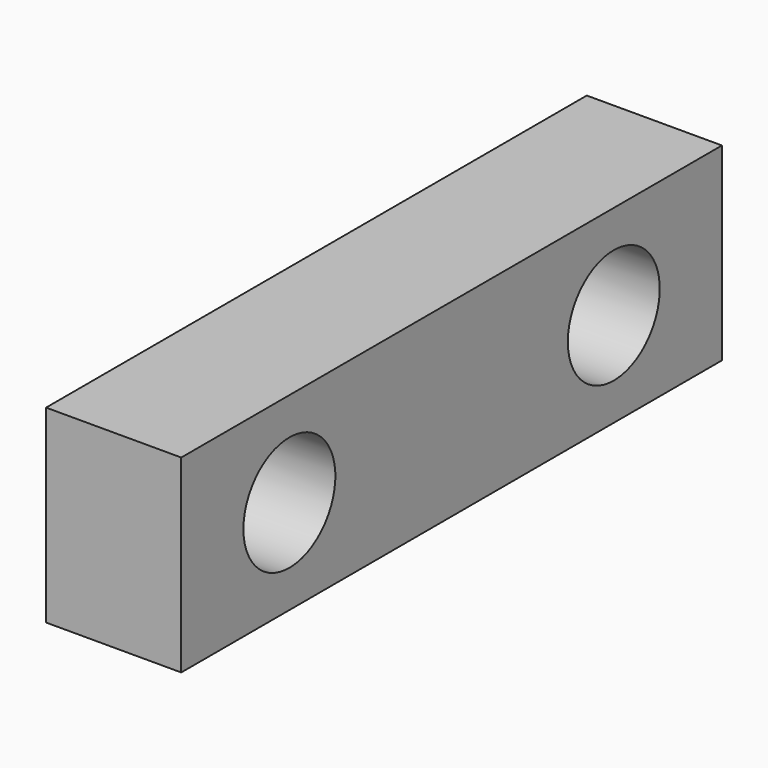
from build123d import *

# Parameters (mm, degrees)
F0_W     = 50
F0_H     = 14
F1_DEPTH = 10
F2_D     = 8.5


with BuildPart() as f1:
    # F0 (on Right) → F1 (new body)
    with BuildSketch(Plane.YZ):
        with Locations((-25.7008373737, 14.168410562)):
            Rectangle(F0_W, F0_H)
    extrude(amount=F1_DEPTH)

    # F2 (through all)
    with Locations(Plane(origin=(0, 0, 0), x_dir=(0, 1, 0), z_dir=(-1, 0, 0))):
        with Locations((-40.7008373737, -14.168410562), (-10.7008373737, -14.168410562)):
            Hole(F2_D / 2)


solid = f1.part
